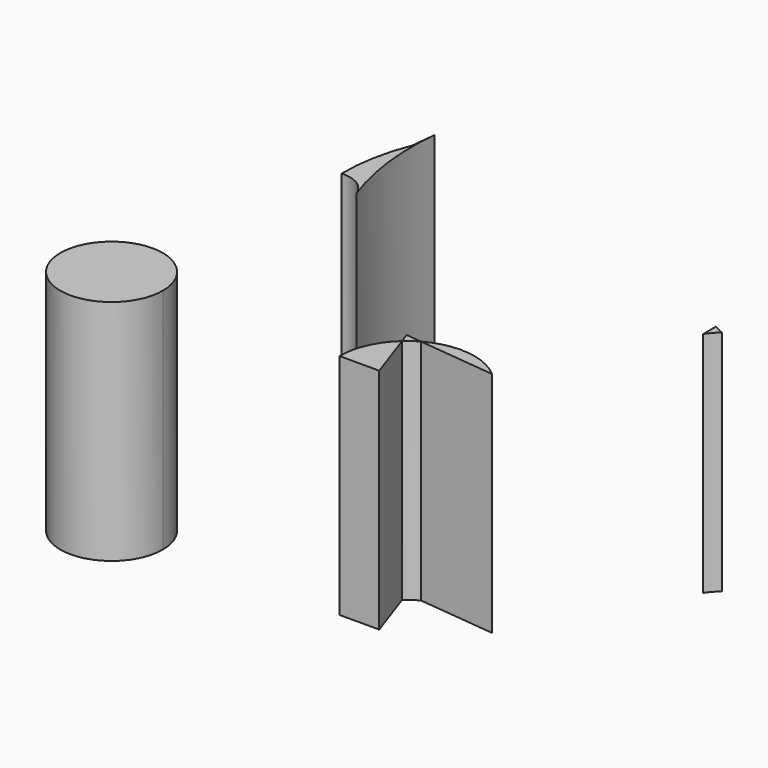
from build123d import *

# Parameters (mm, degrees)
F1_DEPTH = 25.4


with BuildPart() as f1:
    # F0 (on Top) → F1 (new body)
    with BuildSketch(Plane.XY):
        with BuildLine():
            ThreePointArc((-0.39689, -210.458777), (-6.101603, -204.754064), (-11.806316, -210.458777))
            Line((-11.806316, -210.458777), (-6.101603, -210.458777))
            Line((-6.101603, -210.458777), (-0.39689, -210.458777))
        make_face()
        with BuildLine():
            Line((-6.101603, -210.458777), (-11.806316, -210.458777))
            ThreePointArc((-11.806316, -210.458777), (-6.101603, -216.163491), (-0.39689, -210.458777))
            Line((-0.39689, -210.458777), (-6.101603, -210.458777))
        make_face()
        with BuildLine():
            Line((42.508696, -186.207263), (41.412545, -185.693204))
            Line((41.412545, -185.693204), (41.412545, -187.440656))
            ThreePointArc((41.412545, -187.440656), (41.926686, -186.793801), (42.508696, -186.207263))
        make_face()
        with BuildLine():
            Line((23.12689, -203.902571), (31.775724, -204.812954))
            ThreePointArc((31.775724, -204.812954), (27.596267, -202.980612), (23.12689, -203.902571))
        make_face()
        with BuildLine():
            Line((23.724803, -210.458777), (21.785525, -204.863585))
            ThreePointArc((21.785525, -204.863585), (19.941893, -207.395459), (19.289629, -210.458777))
            Line((19.289629, -210.458777), (23.724803, -210.458777))
        make_face()
        with BuildLine():
            ThreePointArc((21.785525, -204.863585), (22.429767, -204.346173), (23.12689, -203.902571))
            Line((23.12689, -203.902571), (21.389038, -203.719644))
            Line((21.389038, -203.719644), (21.785525, -204.863585))
        make_face()
        with BuildLine():
            ThreePointArc((-0.54828, -175.550783), (-1.687482, -179.457525), (-2.038437, -183.511813))
            ThreePointArc((-2.038437, -183.511813), (0.002707, -184.004831), (1.318575, -185.641239))
            ThreePointArc((1.318575, -185.641239), (-0.20176, -179.305596), (-0.257713, -172.790333))
            Line((-0.257713, -172.790333), (-0.54828, -175.550783))
        make_face()
    extrude(amount=F1_DEPTH)


solid = f1.part
